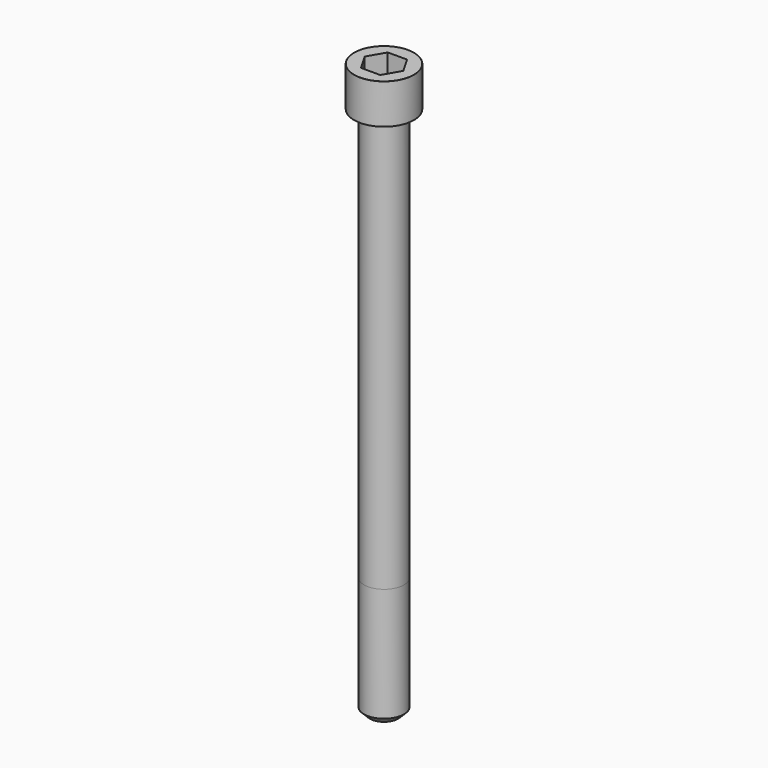
from build123d import *

# Parameters (mm, degrees)
POCKET_DEPTH = 10.07


with BuildPart() as part:
    # Sketch → Revolve (revolve)
    with BuildSketch(Plane.YZ):
        with BuildLine():
            Line((5.999, 0), (9, 0))
            Line((9, 0), (9, 11.97229))
            ThreePointArc((9, 11.97229), (8.991884, 11.991884), (8.97229, 12))
            Line((8.97229, 12), (0, 12))
            Line((0, -160), (0, 12))
            Line((4.25, -160), (0, -160))
            Line((6, -158.25), (4.25, -160))
            Line((6, -124), (6, -158.25))
            Line((5.999, 0), (6, -124))
        make_face()
    revolve(axis=Axis((0, 0, 0), (0, 0, 1)))

    # Sketch001 → Pocket (cut)
    with BuildSketch(Plane.XY.offset(12)):
        Polygon((5.813917, 0), (2.906959, 5.035), (-2.906959, 5.035), (-5.813917, 0), (-2.906959, -5.035), (2.906959, -5.035), align=None)
    extrude(amount=-POCKET_DEPTH, mode=Mode.SUBTRACT)


solid = part.part
